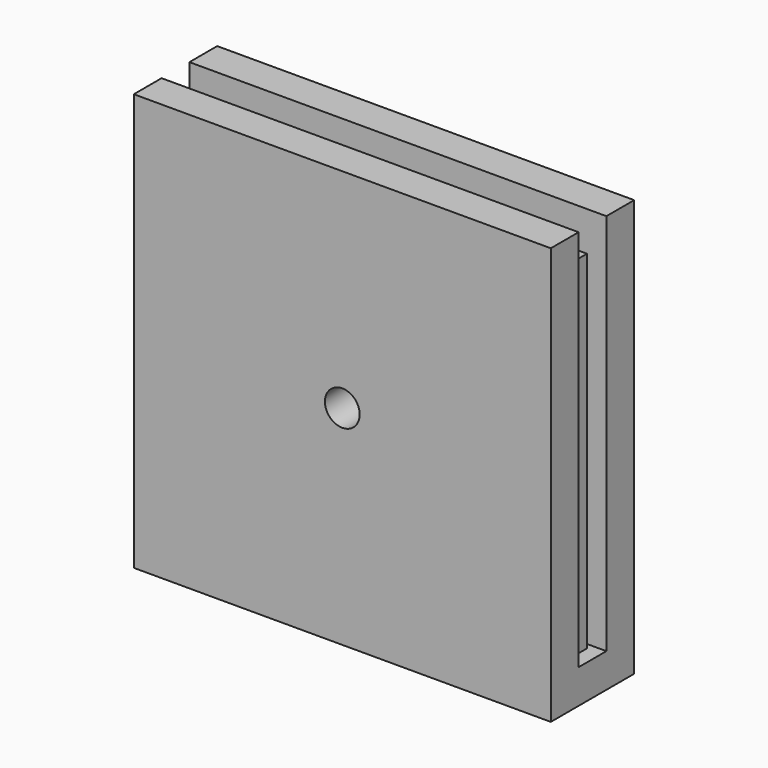
from build123d import *

# Parameters (mm, degrees)
F0_W      = 56
F0_H      = 50
F1_DEPTH  = 1.5
F3_DEPTH  = 25
F5_W      = 60
F5_H      = 60
F6_DEPTH  = 2.5
F7_W      = 60
F7_H      = 15
F8_DEPTH  = 4.9
F9_W      = 60
F9_H      = 5
F10_DEPTH = 55.1
F11_R     = 2.5
F12_DEPTH = 25


with BuildPart() as f1:
    # F0 (on Front) → F1 (new body, symmetric)
    with BuildSketch(Plane.XZ):
        with Locations((0, -15)):
            Rectangle(F0_W, F0_H)
    extrude(amount=F1_DEPTH, both=True)

    # F2 (on face) → F3 (cut)
    with BuildSketch(Plane.XZ.offset(1.5)):
        with BuildLine():
            Line((-2.5, 2.5), (2.5, 2.5))
            ThreePointArc((2.5, 2.5), (0, 5), (-2.5, 2.5))
        make_face()
        with BuildLine():
            Line((2.5, -32.5), (2.5, 2.5))
            ThreePointArc((2.5, 2.5), (0, 0), (-2.5, 2.5))
            Line((-2.5, 2.5), (-2.5, -32.5))
            ThreePointArc((-2.5, -32.5), (0, -30), (2.5, -32.5))
        make_face()
        with BuildLine():
            ThreePointArc((-2.5, 2.5), (0, 0), (2.5, 2.5))
            Line((2.5, 2.5), (-2.5, 2.5))
        make_face()
        with BuildLine():
            Line((-2.5, -32.5), (2.5, -32.5))
            ThreePointArc((2.5, -32.5), (0, -30), (-2.5, -32.5))
        make_face()
        with BuildLine():
            ThreePointArc((-2.5, -32.5), (0, -35), (2.5, -32.5))
            Line((2.5, -32.5), (-2.5, -32.5))
        make_face()
    extrude(amount=-F3_DEPTH, mode=Mode.SUBTRACT)


with BuildPart() as f6:
    # F5 (on offset) → F6 (new body, symmetric)
    with BuildSketch(Plane.XZ.offset(5)):
        with Locations((0, -15)):
            Rectangle(F5_W, F5_H)
    extrude(amount=F6_DEPTH, both=True)

    # F7 (on face) → F8 (join)
    with BuildSketch(Plane(origin=(0, 0, -45), x_dir=(1, 0, 0), z_dir=(0, 0, -1))):
        Rectangle(F7_W, F7_H)
    extrude(amount=-F8_DEPTH)

    # F9 (on face) → F10 (join)
    with BuildSketch(Plane.XY.offset(-40.1)):
        with Locations((0, 5)):
            Rectangle(F9_W, F9_H)
    extrude(amount=F10_DEPTH)

    # F11 (on face) → F12 (cut)
    with BuildSketch(Plane(origin=(0, 7.5, 0), x_dir=(-1, 0, 0), z_dir=(0, 1, 0))):
        with Locations((0, -15)):
            Circle(F11_R)
    extrude(amount=-F12_DEPTH, mode=Mode.SUBTRACT)


solid = Compound([f1.part, f6.part])
